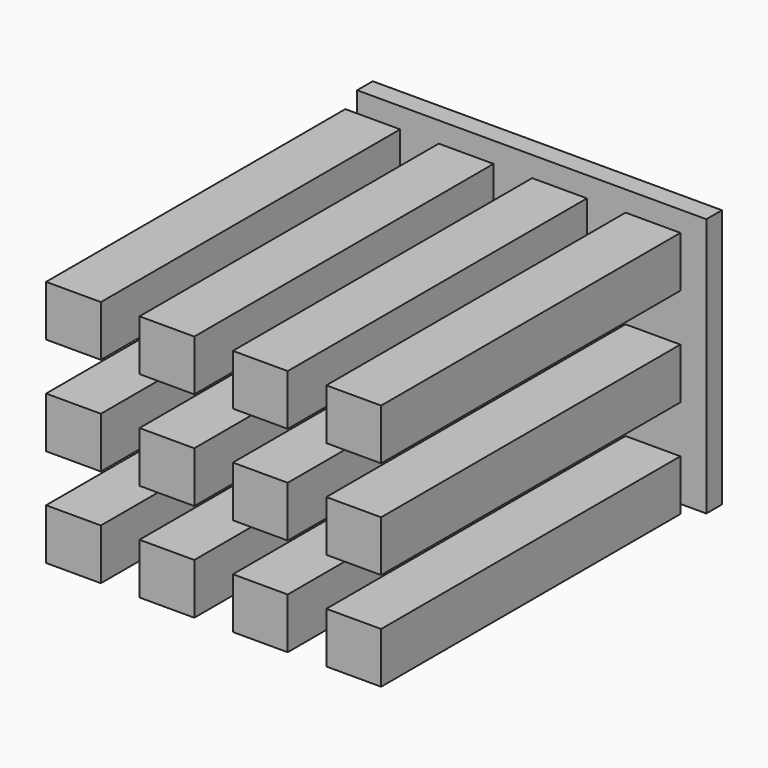
from build123d import *

# Parameters (mm, degrees)
F0_W     = 67.8000804037
F0_H     = 62.9184693098
F1_DEPTH = 462.788
F3_W     = 431.9924879819
F3_H     = 320.5544073135
F4_DEPTH = 24.13


with BuildPart() as f1:
    # F0 (on Front) → F1 (new body)
    with BuildSketch(Plane.XZ):
        with Locations((1.76280085, -1.2232288718)):
            Rectangle(F0_W, F0_H)
    extrude(amount=F1_DEPTH)


with BuildPart() as f1b:
    # F0 (on Front) → F1, piece 2 (new body)
    with BuildSketch(Plane.XZ):
        with Locations((1.76280085, 120.4427711282)):
            Rectangle(F0_W, F0_H)
    extrude(amount=F1_DEPTH)


with BuildPart() as f1c:
    # F0 (on Front) → F1, piece 3 (new body)
    with BuildSketch(Plane.XZ):
        with Locations((1.76280085, 242.1087711282)):
            Rectangle(F0_W, F0_H)
    extrude(amount=F1_DEPTH)


with BuildPart() as f1d:
    # F0 (on Front) → F1, piece 4 (new body)
    with BuildSketch(Plane.XZ):
        with Locations((117.33280085, -1.2232288718)):
            Rectangle(F0_W, F0_H)
    extrude(amount=F1_DEPTH)


with BuildPart() as f1e:
    # F0 (on Front) → F1, piece 5 (new body)
    with BuildSketch(Plane.XZ):
        with Locations((117.33280085, 120.4427711282)):
            Rectangle(F0_W, F0_H)
    extrude(amount=F1_DEPTH)


with BuildPart() as f1f:
    # F0 (on Front) → F1, piece 6 (new body)
    with BuildSketch(Plane.XZ):
        with Locations((117.33280085, 242.1087711282)):
            Rectangle(F0_W, F0_H)
    extrude(amount=F1_DEPTH)


with BuildPart() as f1g:
    # F0 (on Front) → F1, piece 7 (new body)
    with BuildSketch(Plane.XZ):
        with Locations((232.90280085, -1.2232288718)):
            Rectangle(F0_W, F0_H)
    extrude(amount=F1_DEPTH)


with BuildPart() as f1h:
    # F0 (on Front) → F1, piece 8 (new body)
    with BuildSketch(Plane.XZ):
        with Locations((232.90280085, 120.4427711282)):
            Rectangle(F0_W, F0_H)
    extrude(amount=F1_DEPTH)


with BuildPart() as f1i:
    # F0 (on Front) → F1, piece 9 (new body)
    with BuildSketch(Plane.XZ):
        with Locations((232.90280085, 242.1087711282)):
            Rectangle(F0_W, F0_H)
    extrude(amount=F1_DEPTH)


with BuildPart() as f1j:
    # F0 (on Front) → F1, piece 10 (new body)
    with BuildSketch(Plane.XZ):
        with Locations((348.47280085, -1.2232288718)):
            Rectangle(F0_W, F0_H)
    extrude(amount=F1_DEPTH)


with BuildPart() as f1k:
    # F0 (on Front) → F1, piece 11 (new body)
    with BuildSketch(Plane.XZ):
        with Locations((348.47280085, 120.4427711282)):
            Rectangle(F0_W, F0_H)
    extrude(amount=F1_DEPTH)


with BuildPart() as f1l:
    # F0 (on Front) → F1, piece 12 (new body)
    with BuildSketch(Plane.XZ):
        with Locations((348.47280085, 242.1087711282)):
            Rectangle(F0_W, F0_H)
    extrude(amount=F1_DEPTH)


with BuildPart() as f4:
    # F3 (on offset) → F4 (new body)
    with BuildSketch(Plane(origin=(0, 25.4, 0), x_dir=(-1, 0, 0), z_dir=(0, 1, 0))):
        with Locations((-197.4599873647, 137.7403279766)):
            Rectangle(F3_W, F3_H)
    extrude(amount=-F4_DEPTH)


solid = Compound([f1.part, f1b.part, f1c.part, f1d.part, f1e.part, f1f.part, f1g.part, f1h.part, f1i.part, f1j.part, f1k.part, f1l.part, f4.part])
